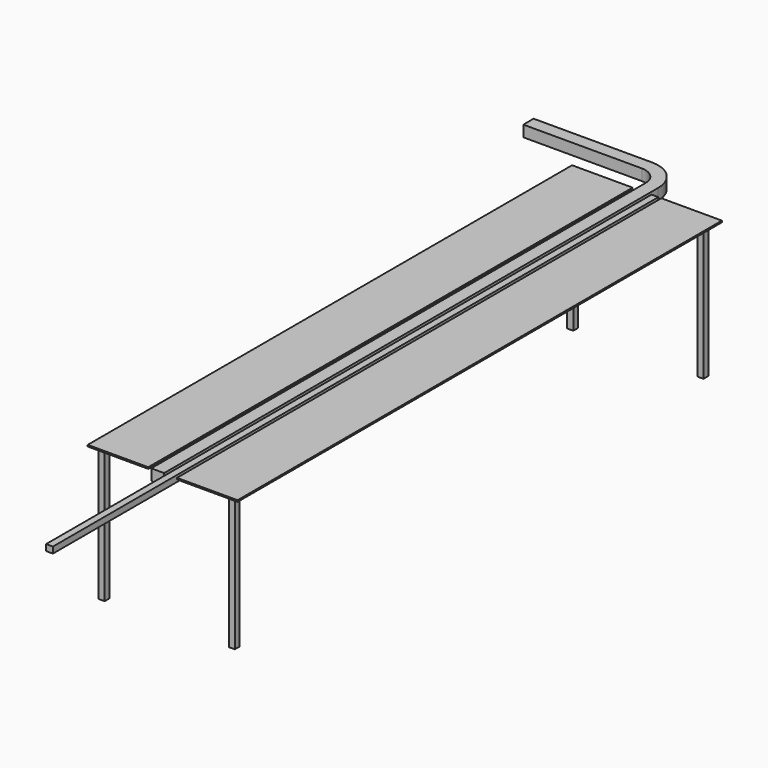
from build123d import *

# Parameters (mm, degrees)
F0_W      = 45
F0_H      = 41
F1_DEPTH  = 5000
F3_W      = 85
F3_H      = 74
F4_DEPTH  = 4080
F5_W      = 85
F5_H      = 74
F6_ANGLE  = -90
F7_W      = 85
F7_H      = 74
F8_DEPTH  = 782.5
F9_W      = 400
F9_H      = 4000
F10_DEPTH = 10
F11_W     = 40
F11_H     = 40
F12_DEPTH = 890


with BuildPart() as f1:
    # F0 (on Front) → F1 (new body)
    with BuildSketch(Plane.XZ):
        with Locations((22.5, 20.5)):
            Rectangle(F0_W, F0_H)
    extrude(amount=-F1_DEPTH)


with BuildPart() as f4:
    # F3 (on offset) → F4 (new body)
    with BuildSketch(Plane.XZ.offset(-1000)):
        with Locations((-62.5, 4)):
            Rectangle(F3_W, F3_H)
    extrude(amount=-F4_DEPTH)

    # F5 (on face) → F6 (revolve)
    with BuildSketch(Plane(origin=(0, 5080, 0), x_dir=(-1, 0, 0), z_dir=(0, 1, 0))):
        with Locations((62.5, 4)):
            Rectangle(F5_W, F5_H)
    revolve(axis=Axis((-222.5, 5080, 11.201847), (0, 0, -1)), revolution_arc=F6_ANGLE)

    # F7 (on face) → F8 (join)
    with BuildSketch(Plane(origin=(-222.5, 0, 0), x_dir=(0, -1, 0), z_dir=(-1, 0, 0))):
        with Locations((-5240, 4)):
            Rectangle(F7_W, F7_H)
    extrude(amount=F8_DEPTH)


with BuildPart() as f10:
    # F9 (on face) → F10 (new body)
    with BuildSketch(Plane.XY.offset(41)):
        with Locations((-325, 3000)):
            Rectangle(F9_W, F9_H)
        with Locations((265, 3000)):
            Rectangle(F9_W, F9_H)
    extrude(amount=-F10_DEPTH)


with BuildPart() as f12:
    # F11 (on face) → F12 (new body)
    with BuildSketch(Plane(origin=(0, 0, 31), x_dir=(1, 0, 0), z_dir=(0, 0, -1))):
        with Locations((-465, -4930)):
            Rectangle(F11_W, F11_H)
        with Locations((395, -4930)):
            Rectangle(F11_W, F11_H)
        with Locations((395, -1060)):
            Rectangle(F11_W, F11_H)
        with Locations((-465, -1060)):
            Rectangle(F11_W, F11_H)
    extrude(amount=F12_DEPTH)


solid = Compound([f1.part, f4.part, f10.part, f12.part])
